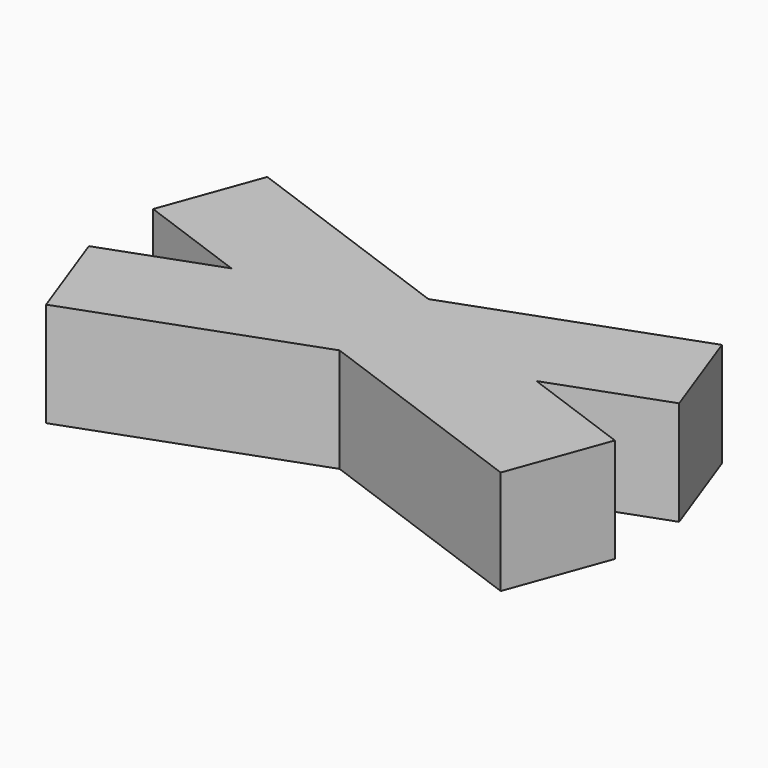
from build123d import *

# Parameters (mm, degrees)
BOX001_W               = 10
BOX001_H               = 2
BOX001_DEPTH           = 2
BOX001_PLACEMENT_ANGLE = 20
BOX_W                  = 10
BOX_H                  = 2
BOX_DEPTH              = 2
BOX_PLACEMENT_ANGLE    = 340


with BuildPart() as cube001:
    # Box001 → Box001 (new body)
    with BuildSketch(Plane.XY):
        with Locations((5, 1)):
            Rectangle(BOX001_W, BOX001_H)
    extrude(amount=BOX001_DEPTH)


with BuildPart() as cube001_1:
    # Box001 placement: moved
    add(cube001.part.moved(Location((-4.356443, -2.649793, 0))).rotate(Axis((-4.356443, -2.649793, 0), (0, 0, 1)), BOX001_PLACEMENT_ANGLE))


with BuildPart() as fusion:
    # Box → Box (new body)
    with BuildSketch(Plane.XY):
        with Locations((5, 1)):
            Rectangle(BOX_W, BOX_H)
    extrude(amount=BOX_DEPTH)


with BuildPart() as fusion_1:
    # Box placement: moved
    add(fusion.part.moved(Location((-5.040483, 0.770408, 0))).rotate(Axis((-5.040483, 0.770408, 0), (0, 0, 1)), BOX_PLACEMENT_ANGLE))

    # Fusion: union Cube001
    add(cube001_1.part)


solid = fusion_1.part
